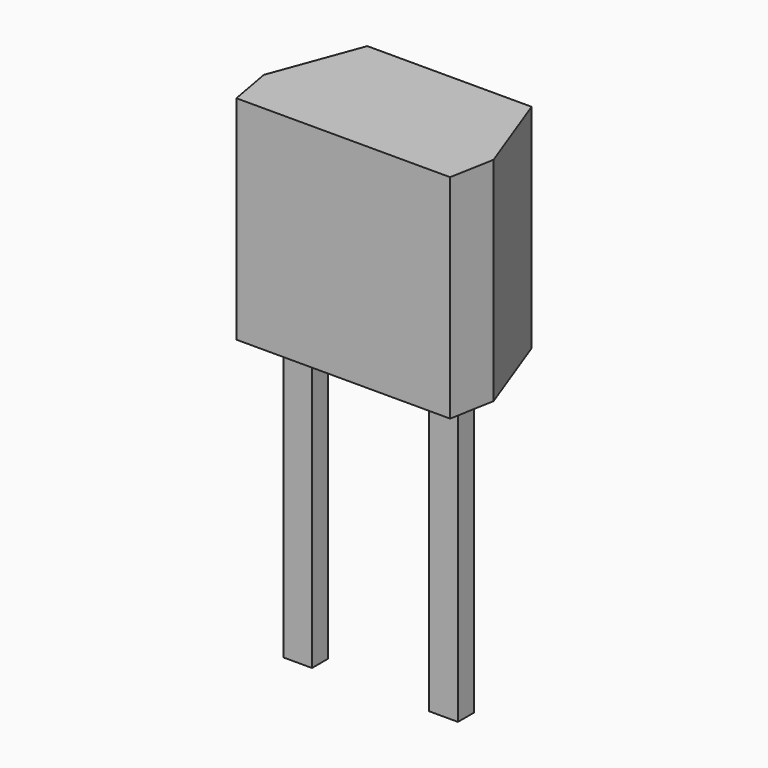
from build123d import *

# Parameters (mm, degrees)
PAD_DEPTH    = 3.7
SKETCH001_W  = 0.5
SKETCH001_H  = 0.35
PAD001_DEPTH = 5


with BuildPart() as pad:
    # Sketch → Pad (new body)
    with BuildSketch(Plane.XY.offset(2.5)):
        Polygon((-0.16, 1.54), (2.7, 1.54), (3.27, 0), (3.13, -0.77), (-0.59, -0.77), (-0.73, 0), align=None)
    extrude(amount=PAD_DEPTH)


with BuildPart() as obj1:
    # Sketch001 → Pad001 (new body)
    with BuildSketch(Plane.XY.offset(2.5)):
        Rectangle(SKETCH001_W, SKETCH001_H)
        with Locations((2.54, 0)):
            Rectangle(SKETCH001_W, SKETCH001_H)
    extrude(amount=-PAD001_DEPTH)

    # obj1: union Pad
    add(pad.part)


solid = obj1.part
